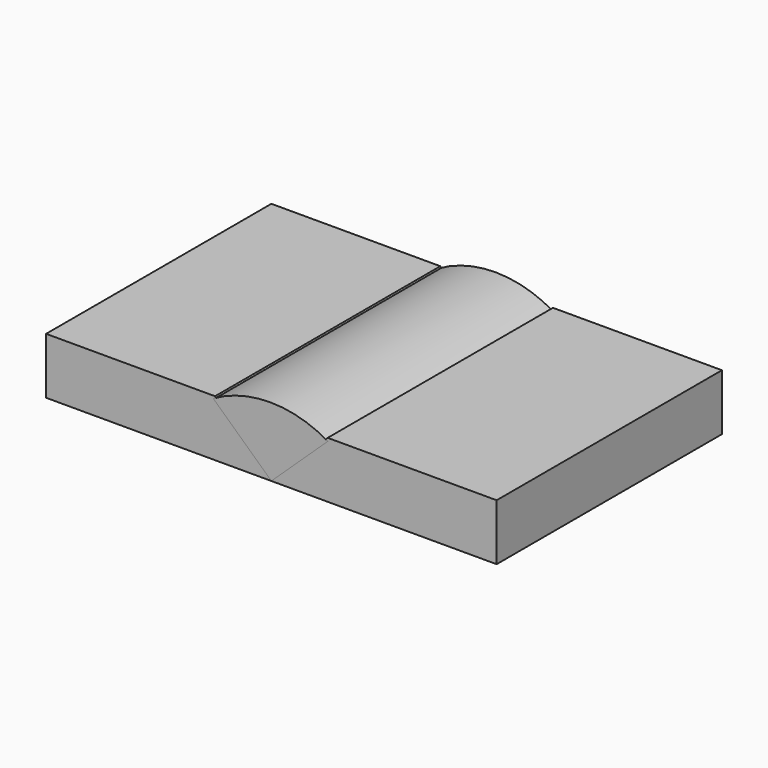
from build123d import *

# Parameters (mm, degrees)
F1_DEPTH = 63.5
F3_DEPTH = 63.5


with BuildPart() as f1:
    # F0 (on Front) → F1 (new body, symmetric)
    with BuildSketch(Plane.XZ):
        Polygon((-101.6, -12.7), (0, -12.7), (-25.4, 12.7), (-101.6, 12.7), align=None)
        Polygon((0, -12.7), (101.6, -12.7), (101.6, 12.7), (25.4, 12.7), align=None)
    extrude(amount=F1_DEPTH, both=True)


with BuildPart() as f3:
    # F2 (on Front) → F3 (new body, symmetric)
    with BuildSketch(Plane.XZ):
        with BuildLine():
            Line((0, -12.686771), (25.466047, 11.340428))
            ThreePointArc((25.466047, 11.340428), (-0.344855, 18.39957), (-26.209088, 11.5384))
            Line((-26.209088, 11.5384), (0, -12.686771))
        make_face()
    extrude(amount=F3_DEPTH, both=True)


solid = Compound([f1.part, f3.part])
